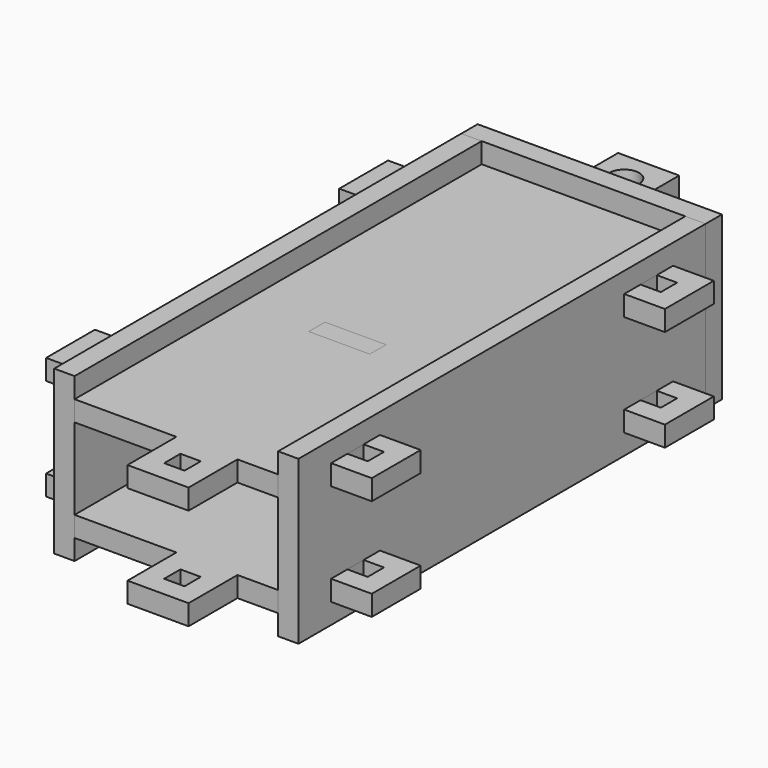
from build123d import *

# Parameters (mm, degrees)
BOX_W             = 12
BOX_H             = 3
BOX_DEPTH         = 12
BOX111_W          = 9
BOX111_H          = 3
BOX111_DEPTH      = 3
BOX112_W          = 9
BOX112_H          = 3
BOX112_DEPTH      = 3
BOX125_W          = 9
BOX125_H          = 3
BOX125_DEPTH      = 3
BOX123_W          = 9
BOX123_H          = 3
BOX123_DEPTH      = 3
BOX124_W          = 36
BOX124_H          = 3
BOX124_DEPTH      = 24
BOX126_W          = 9
BOX126_H          = 3
BOX126_DEPTH      = 3
BOX084_W          = 3
BOX084_H          = 3
BOX084_DEPTH      = 4
BOX083_W          = 9
BOX083_H          = 9
BOX083_DEPTH      = 3
BOX086_W          = 3
BOX086_H          = 3
BOX086_DEPTH      = 4
BOX085_W          = 9
BOX085_H          = 9
BOX085_DEPTH      = 3
BOX088_W          = 3
BOX088_H          = 3
BOX088_DEPTH      = 4
BOX087_W          = 9
BOX087_H          = 9
BOX087_DEPTH      = 3
BOX004_W          = 3
BOX004_H          = 3
BOX004_DEPTH      = 4
BOX003_W          = 9
BOX003_H          = 9
BOX003_DEPTH      = 3
BOX005_W          = 9
BOX005_H          = 3
BOX005_DEPTH      = 3
BOX082_W          = 30
BOX082_H          = 75
BOX082_DEPTH      = 3
BOX002_W          = 3
BOX002_H          = 3
BOX002_DEPTH      = 4
BOX001_W          = 9
BOX001_H          = 9
BOX001_DEPTH      = 3
CYLINDER027_R     = 2.2
CYLINDER027_DEPTH = 10
BOX006_W          = 9
BOX006_H          = 9
BOX006_DEPTH      = 3
BOX113_W          = 3
BOX113_H          = 9
BOX113_DEPTH      = 3
BOX114_W          = 3
BOX114_H          = 9
BOX114_DEPTH      = 3
BOX115_W          = 3
BOX115_H          = 9
BOX115_DEPTH      = 3
BOX116_W          = 3
BOX116_H          = 9
BOX116_DEPTH      = 3
BOX117_W          = 3
BOX117_H          = 75
BOX117_DEPTH      = 24
BOX127_W          = 3
BOX127_H          = 9
BOX127_DEPTH      = 3
BOX128_W          = 3
BOX128_H          = 9
BOX128_DEPTH      = 3
BOX129_W          = 3
BOX129_H          = 9
BOX129_DEPTH      = 3
BOX130_W          = 3
BOX130_H          = 9
BOX130_DEPTH      = 3
BOX131_W          = 3
BOX131_H          = 75
BOX131_DEPTH      = 24
BOX145_W          = 9
BOX145_H          = 3
BOX145_DEPTH      = 3
BOX140_W          = 3
BOX140_H          = 3
BOX140_DEPTH      = 4
BOX139_W          = 9
BOX139_H          = 9
BOX139_DEPTH      = 3
BOX142_W          = 3
BOX142_H          = 3
BOX142_DEPTH      = 4
BOX141_W          = 9
BOX141_H          = 9
BOX141_DEPTH      = 3
BOX144_W          = 3
BOX144_H          = 3
BOX144_DEPTH      = 4
BOX143_W          = 9
BOX143_H          = 9
BOX143_DEPTH      = 3
BOX136_W          = 3
BOX136_H          = 3
BOX136_DEPTH      = 4
BOX135_W          = 9
BOX135_H          = 9
BOX135_DEPTH      = 3
BOX137_W          = 9
BOX137_H          = 3
BOX137_DEPTH      = 3
BOX132_W          = 30
BOX132_H          = 75
BOX132_DEPTH      = 3
BOX134_W          = 3
BOX134_H          = 3
BOX134_DEPTH      = 4
BOX133_W          = 9
BOX133_H          = 9
BOX133_DEPTH      = 3
CYLINDER028_R     = 2.2
CYLINDER028_DEPTH = 10
BOX138_W          = 9
BOX138_H          = 9
BOX138_DEPTH      = 3


with BuildPart() as cube:
    # Box → Box (new body)
    with BuildSketch(Plane(origin=(-0.5, 12, 3), x_dir=(1, 0, 0), z_dir=(0, 0, 1))):
        with Locations((6, 1.5)):
            Rectangle(BOX_W, BOX_H)
    extrude(amount=BOX_DEPTH)


with BuildPart() as cube033:
    # Box111 → Box111 (new body)
    with BuildSketch(Plane(origin=(1, 12, 15), x_dir=(1, 0, 0), z_dir=(0, 0, 1))):
        with Locations((4.5, 1.5)):
            Rectangle(BOX111_W, BOX111_H)
    extrude(amount=BOX111_DEPTH)


with BuildPart() as turretpitchholderdistant:
    # Box112 → Box112 (new body)
    with BuildSketch(Plane(origin=(1, 12, 0), x_dir=(1, 0, 0), z_dir=(0, 0, 1))):
        with Locations((4.5, 1.5)):
            Rectangle(BOX112_W, BOX112_H)
    extrude(amount=BOX112_DEPTH)

    # Fusion030: union Cube, Cube033
    add(cube.part)
    add(cube033.part)


with BuildPart() as turretpitchholderdistant_1:
    # Fusion030 placement: moved
    add(turretpitchholderdistant.part.moved(Location((9.5, 18, 0))))


with BuildPart() as cube047:
    # Box125 → Box125 (new body)
    with BuildSketch(Plane(origin=(10.5, -3, 15), x_dir=(1, 0, 0), z_dir=(0, 0, 1))):
        with Locations((4.5, 1.5)):
            Rectangle(BOX125_W, BOX125_H)
    extrude(amount=BOX125_DEPTH)


with BuildPart() as cube045:
    # Box123 → Box123 (new body)
    with BuildSketch(Plane(origin=(10.5, -3, 0), x_dir=(1, 0, 0), z_dir=(0, 0, 1))):
        with Locations((4.5, 1.5)):
            Rectangle(BOX123_W, BOX123_H)
    extrude(amount=BOX123_DEPTH)


with BuildPart() as turretpitchholdertopplate:
    # Box124 → Box124 (new body)
    with BuildSketch(Plane(origin=(-3, -3, -3), x_dir=(1, 0, 0), z_dir=(0, 0, 1))):
        with Locations((18, 1.5)):
            Rectangle(BOX124_W, BOX124_H)
    extrude(amount=BOX124_DEPTH)

    # Cut052: cut Cube045
    add(cube045.part, mode=Mode.SUBTRACT)

    # Cut058: cut Cube047
    add(cube047.part, mode=Mode.SUBTRACT)


with BuildPart() as turretpitchholdertopplate_1:
    # Cut058 placement: moved
    add(turretpitchholdertopplate.part.moved(Location((0, 78, 0))))


with BuildPart() as cube048:
    # Box126 → Box126 (new body)
    with BuildSketch(Plane(origin=(10.5, 75, 0), x_dir=(1, 0, 0), z_dir=(0, 0, 1))):
        with Locations((4.5, 1.5)):
            Rectangle(BOX126_W, BOX126_H)
    extrude(amount=BOX126_DEPTH)


with BuildPart() as cube014:
    # Box084 → Box084 (new body)
    with BuildSketch(Plane(origin=(-6, 9, 0), x_dir=(1, 0, 0), z_dir=(0, 0, 1))):
        with Locations((1.5, 1.5)):
            Rectangle(BOX084_W, BOX084_H)
    extrude(amount=BOX084_DEPTH)


with BuildPart() as cut035:
    # Box083 → Box083 (new body)
    with BuildSketch(Plane(origin=(-9, 6, 0), x_dir=(1, 0, 0), z_dir=(0, 0, 1))):
        with Locations((4.5, 4.5)):
            Rectangle(BOX083_W, BOX083_H)
    extrude(amount=BOX083_DEPTH)

    # Cut035: cut Cube014
    add(cube014.part, mode=Mode.SUBTRACT)


with BuildPart() as cut035_1:
    # Cut035 placement: moved
    add(cut035.part.moved(Location((24, -15, 0))))


with BuildPart() as cube016:
    # Box086 → Box086 (new body)
    with BuildSketch(Plane(origin=(-6, 9, 0), x_dir=(1, 0, 0), z_dir=(0, 0, 1))):
        with Locations((1.5, 1.5)):
            Rectangle(BOX086_W, BOX086_H)
    extrude(amount=BOX086_DEPTH)


with BuildPart() as cut036:
    # Box085 → Box085 (new body)
    with BuildSketch(Plane(origin=(-9, 6, 0), x_dir=(1, 0, 0), z_dir=(0, 0, 1))):
        with Locations((4.5, 4.5)):
            Rectangle(BOX085_W, BOX085_H)
    extrude(amount=BOX085_DEPTH)

    # Cut036: cut Cube016
    add(cube016.part, mode=Mode.SUBTRACT)


with BuildPart() as cut036_1:
    # Cut036 placement: moved
    add(cut036.part.moved(Location((39, 54, 0))))


with BuildPart() as cube018:
    # Box088 → Box088 (new body)
    with BuildSketch(Plane(origin=(-6, 9, 0), x_dir=(1, 0, 0), z_dir=(0, 0, 1))):
        with Locations((1.5, 1.5)):
            Rectangle(BOX088_W, BOX088_H)
    extrude(amount=BOX088_DEPTH)


with BuildPart() as cut037:
    # Box087 → Box087 (new body)
    with BuildSketch(Plane(origin=(-9, 6, 0), x_dir=(1, 0, 0), z_dir=(0, 0, 1))):
        with Locations((4.5, 4.5)):
            Rectangle(BOX087_W, BOX087_H)
    extrude(amount=BOX087_DEPTH)

    # Cut037: cut Cube018
    add(cube018.part, mode=Mode.SUBTRACT)


with BuildPart() as cut037_1:
    # Cut037 placement: moved
    add(cut037.part.moved(Location((0, 54, 0))))


with BuildPart() as cube010:
    # Box004 → Box004 (new body)
    with BuildSketch(Plane(origin=(-6, 9, 0), x_dir=(1, 0, 0), z_dir=(0, 0, 1))):
        with Locations((1.5, 1.5)):
            Rectangle(BOX004_W, BOX004_H)
    extrude(amount=BOX004_DEPTH)


with BuildPart() as cut001:
    # Box003 → Box003 (new body)
    with BuildSketch(Plane(origin=(-9, 6, 0), x_dir=(1, 0, 0), z_dir=(0, 0, 1))):
        with Locations((4.5, 4.5)):
            Rectangle(BOX003_W, BOX003_H)
    extrude(amount=BOX003_DEPTH)

    # Cut001: cut Cube010
    add(cube010.part, mode=Mode.SUBTRACT)


with BuildPart() as cut001_1:
    # Cut001 placement: moved
    add(cut001.part.moved(Location((39, 0, 0))))


with BuildPart() as cube011:
    # Box005 → Box005 (new body)
    with BuildSketch(Plane(origin=(10.5, 30, 0), x_dir=(1, 0, 0), z_dir=(0, 0, 1))):
        with Locations((4.5, 1.5)):
            Rectangle(BOX005_W, BOX005_H)
    extrude(amount=BOX005_DEPTH)


with BuildPart() as cut002:
    # Box082 → Box082 (new body)
    with BuildSketch(Plane.XY):
        with Locations((15, 37.5)):
            Rectangle(BOX082_W, BOX082_H)
    extrude(amount=BOX082_DEPTH)

    # Cut002: cut Cube011
    add(cube011.part, mode=Mode.SUBTRACT)


with BuildPart() as cube008:
    # Box002 → Box002 (new body)
    with BuildSketch(Plane(origin=(-6, 9, 0), x_dir=(1, 0, 0), z_dir=(0, 0, 1))):
        with Locations((1.5, 1.5)):
            Rectangle(BOX002_W, BOX002_H)
    extrude(amount=BOX002_DEPTH)


with BuildPart() as fusion027:
    # Box001 → Box001 (new body)
    with BuildSketch(Plane(origin=(-9, 6, 0), x_dir=(1, 0, 0), z_dir=(0, 0, 1))):
        with Locations((4.5, 4.5)):
            Rectangle(BOX001_W, BOX001_H)
    extrude(amount=BOX001_DEPTH)

    # Cut034: cut Cube008
    add(cube008.part, mode=Mode.SUBTRACT)

    # Fusion027: union Cut001, Cut002
    add(cut001_1.part)
    add(cut002.part)


with BuildPart() as obj1:
    # Cylinder027 → Cylinder027 (new body)
    with BuildSketch(Plane(origin=(15, 40.5, 0), x_dir=(1, 0, 0), z_dir=(0, 0, 1))):
        Circle(CYLINDER027_R)
    extrude(amount=CYLINDER027_DEPTH)


with BuildPart() as turretpitchholderside:
    # Box006 → Box006 (new body)
    with BuildSketch(Plane(origin=(10.5, 36, 0), x_dir=(1, 0, 0), z_dir=(0, 0, 1))):
        with Locations((4.5, 4.5)):
            Rectangle(BOX006_W, BOX006_H)
    extrude(amount=BOX006_DEPTH)

    # Cut003: cut obj1
    add(obj1.part, mode=Mode.SUBTRACT)


with BuildPart() as turretpitchholderside_1:
    # Cut003 placement: moved
    add(turretpitchholderside.part.moved(Location((0, 42, 0))))

    # Fusion: union Cut035, Cut036, Cut037, Fusion027
    add(cut035_1.part)
    add(cut036_1.part)
    add(cut037_1.part)
    add(fusion027.part)

    # Fusion031: union Cube048
    add(cube048.part)


with BuildPart() as cube035:
    # Box113 → Box113 (new body)
    with BuildSketch(Plane(origin=(30, 60, 0), x_dir=(1, 0, 0), z_dir=(0, 0, 1))):
        with Locations((1.5, 4.5)):
            Rectangle(BOX113_W, BOX113_H)
    extrude(amount=BOX113_DEPTH)


with BuildPart() as cube036:
    # Box114 → Box114 (new body)
    with BuildSketch(Plane(origin=(39, 6, 0), x_dir=(1, 0, 0), z_dir=(0, 0, 1))):
        with Locations((1.5, 4.5)):
            Rectangle(BOX114_W, BOX114_H)
    extrude(amount=BOX114_DEPTH)


with BuildPart() as cube037:
    # Box115 → Box115 (new body)
    with BuildSketch(Plane(origin=(39, 6, 15), x_dir=(1, 0, 0), z_dir=(0, 0, 1))):
        with Locations((1.5, 4.5)):
            Rectangle(BOX115_W, BOX115_H)
    extrude(amount=BOX115_DEPTH)


with BuildPart() as cube038:
    # Box116 → Box116 (new body)
    with BuildSketch(Plane(origin=(39, 60, 15), x_dir=(1, 0, 0), z_dir=(0, 0, 1))):
        with Locations((1.5, 4.5)):
            Rectangle(BOX116_W, BOX116_H)
    extrude(amount=BOX116_DEPTH)


with BuildPart() as turretpitchholdersideplate:
    # Box117 → Box117 (new body)
    with BuildSketch(Plane(origin=(39, 0, -3), x_dir=(1, 0, 0), z_dir=(0, 0, 1))):
        with Locations((1.5, 37.5)):
            Rectangle(BOX117_W, BOX117_H)
    extrude(amount=BOX117_DEPTH)

    # Cut: cut Cube038
    add(cube038.part, mode=Mode.SUBTRACT)

    # Cut045: cut Cube037
    add(cube037.part, mode=Mode.SUBTRACT)

    # Cut046: cut Cube036
    add(cube036.part, mode=Mode.SUBTRACT)

    # Cut047: cut Cube035
    add(cube035.part, mode=Mode.SUBTRACT)


with BuildPart() as turretpitchholdersideplate_1:
    # Cut047 placement: moved
    add(turretpitchholdersideplate.part.moved(Location((-9, 0, 0))))

    # Cut059: cut Cube035
    add(cube035.part, mode=Mode.SUBTRACT)


with BuildPart() as cube049:
    # Box127 → Box127 (new body)
    with BuildSketch(Plane(origin=(30, 60, 0), x_dir=(1, 0, 0), z_dir=(0, 0, 1))):
        with Locations((1.5, 4.5)):
            Rectangle(BOX127_W, BOX127_H)
    extrude(amount=BOX127_DEPTH)


with BuildPart() as cube050:
    # Box128 → Box128 (new body)
    with BuildSketch(Plane(origin=(39, 6, 0), x_dir=(1, 0, 0), z_dir=(0, 0, 1))):
        with Locations((1.5, 4.5)):
            Rectangle(BOX128_W, BOX128_H)
    extrude(amount=BOX128_DEPTH)


with BuildPart() as cube051:
    # Box129 → Box129 (new body)
    with BuildSketch(Plane(origin=(39, 6, 15), x_dir=(1, 0, 0), z_dir=(0, 0, 1))):
        with Locations((1.5, 4.5)):
            Rectangle(BOX129_W, BOX129_H)
    extrude(amount=BOX129_DEPTH)


with BuildPart() as cube052:
    # Box130 → Box130 (new body)
    with BuildSketch(Plane(origin=(39, 60, 15), x_dir=(1, 0, 0), z_dir=(0, 0, 1))):
        with Locations((1.5, 4.5)):
            Rectangle(BOX130_W, BOX130_H)
    extrude(amount=BOX130_DEPTH)


with BuildPart() as turretpitchholdersideplate001:
    # Box131 → Box131 (new body)
    with BuildSketch(Plane(origin=(39, 0, -3), x_dir=(1, 0, 0), z_dir=(0, 0, 1))):
        with Locations((1.5, 37.5)):
            Rectangle(BOX131_W, BOX131_H)
    extrude(amount=BOX131_DEPTH)

    # Cut060: cut Cube052
    add(cube052.part, mode=Mode.SUBTRACT)

    # Cut061: cut Cube051
    add(cube051.part, mode=Mode.SUBTRACT)

    # Cut062: cut Cube050
    add(cube050.part, mode=Mode.SUBTRACT)

    # Cut063: cut Cube049
    add(cube049.part, mode=Mode.SUBTRACT)


with BuildPart() as turretpitchholdersideplate001_1:
    # Cut063 placement: moved
    add(turretpitchholdersideplate001.part.moved(Location((-9, 0, 0))))

    # Cut064: cut Cube049
    add(cube049.part, mode=Mode.SUBTRACT)


with BuildPart() as turretpitchholdersideplate001_2:
    # Cut064 placement: moved
    add(turretpitchholdersideplate001_1.part.moved(Location((-33, 0, 0))))


with BuildPart() as cube067:
    # Box145 → Box145 (new body)
    with BuildSketch(Plane(origin=(10.5, 75, 0), x_dir=(1, 0, 0), z_dir=(0, 0, 1))):
        with Locations((4.5, 1.5)):
            Rectangle(BOX145_W, BOX145_H)
    extrude(amount=BOX145_DEPTH)


with BuildPart() as cube062:
    # Box140 → Box140 (new body)
    with BuildSketch(Plane(origin=(-6, 9, 0), x_dir=(1, 0, 0), z_dir=(0, 0, 1))):
        with Locations((1.5, 1.5)):
            Rectangle(BOX140_W, BOX140_H)
    extrude(amount=BOX140_DEPTH)


with BuildPart() as cut069:
    # Box139 → Box139 (new body)
    with BuildSketch(Plane(origin=(-9, 6, 0), x_dir=(1, 0, 0), z_dir=(0, 0, 1))):
        with Locations((4.5, 4.5)):
            Rectangle(BOX139_W, BOX139_H)
    extrude(amount=BOX139_DEPTH)

    # Cut069: cut Cube062
    add(cube062.part, mode=Mode.SUBTRACT)


with BuildPart() as cut069_1:
    # Cut069 placement: moved
    add(cut069.part.moved(Location((24, -15, 0))))


with BuildPart() as cube064:
    # Box142 → Box142 (new body)
    with BuildSketch(Plane(origin=(-6, 9, 0), x_dir=(1, 0, 0), z_dir=(0, 0, 1))):
        with Locations((1.5, 1.5)):
            Rectangle(BOX142_W, BOX142_H)
    extrude(amount=BOX142_DEPTH)


with BuildPart() as cut070:
    # Box141 → Box141 (new body)
    with BuildSketch(Plane(origin=(-9, 6, 0), x_dir=(1, 0, 0), z_dir=(0, 0, 1))):
        with Locations((4.5, 4.5)):
            Rectangle(BOX141_W, BOX141_H)
    extrude(amount=BOX141_DEPTH)

    # Cut070: cut Cube064
    add(cube064.part, mode=Mode.SUBTRACT)


with BuildPart() as cut070_1:
    # Cut070 placement: moved
    add(cut070.part.moved(Location((39, 54, 0))))


with BuildPart() as cube066:
    # Box144 → Box144 (new body)
    with BuildSketch(Plane(origin=(-6, 9, 0), x_dir=(1, 0, 0), z_dir=(0, 0, 1))):
        with Locations((1.5, 1.5)):
            Rectangle(BOX144_W, BOX144_H)
    extrude(amount=BOX144_DEPTH)


with BuildPart() as cut071:
    # Box143 → Box143 (new body)
    with BuildSketch(Plane(origin=(-9, 6, 0), x_dir=(1, 0, 0), z_dir=(0, 0, 1))):
        with Locations((4.5, 4.5)):
            Rectangle(BOX143_W, BOX143_H)
    extrude(amount=BOX143_DEPTH)

    # Cut071: cut Cube066
    add(cube066.part, mode=Mode.SUBTRACT)


with BuildPart() as cut071_1:
    # Cut071 placement: moved
    add(cut071.part.moved(Location((0, 54, 0))))


with BuildPart() as cube058:
    # Box136 → Box136 (new body)
    with BuildSketch(Plane(origin=(-6, 9, 0), x_dir=(1, 0, 0), z_dir=(0, 0, 1))):
        with Locations((1.5, 1.5)):
            Rectangle(BOX136_W, BOX136_H)
    extrude(amount=BOX136_DEPTH)


with BuildPart() as cut066:
    # Box135 → Box135 (new body)
    with BuildSketch(Plane(origin=(-9, 6, 0), x_dir=(1, 0, 0), z_dir=(0, 0, 1))):
        with Locations((4.5, 4.5)):
            Rectangle(BOX135_W, BOX135_H)
    extrude(amount=BOX135_DEPTH)

    # Cut066: cut Cube058
    add(cube058.part, mode=Mode.SUBTRACT)


with BuildPart() as cut066_1:
    # Cut066 placement: moved
    add(cut066.part.moved(Location((39, 0, 0))))


with BuildPart() as cube059:
    # Box137 → Box137 (new body)
    with BuildSketch(Plane(origin=(10.5, 30, 0), x_dir=(1, 0, 0), z_dir=(0, 0, 1))):
        with Locations((4.5, 1.5)):
            Rectangle(BOX137_W, BOX137_H)
    extrude(amount=BOX137_DEPTH)


with BuildPart() as cut067:
    # Box132 → Box132 (new body)
    with BuildSketch(Plane.XY):
        with Locations((15, 37.5)):
            Rectangle(BOX132_W, BOX132_H)
    extrude(amount=BOX132_DEPTH)

    # Cut067: cut Cube059
    add(cube059.part, mode=Mode.SUBTRACT)


with BuildPart() as cube056:
    # Box134 → Box134 (new body)
    with BuildSketch(Plane(origin=(-6, 9, 0), x_dir=(1, 0, 0), z_dir=(0, 0, 1))):
        with Locations((1.5, 1.5)):
            Rectangle(BOX134_W, BOX134_H)
    extrude(amount=BOX134_DEPTH)


with BuildPart() as fusion032:
    # Box133 → Box133 (new body)
    with BuildSketch(Plane(origin=(-9, 6, 0), x_dir=(1, 0, 0), z_dir=(0, 0, 1))):
        with Locations((4.5, 4.5)):
            Rectangle(BOX133_W, BOX133_H)
    extrude(amount=BOX133_DEPTH)

    # Cut065: cut Cube056
    add(cube056.part, mode=Mode.SUBTRACT)

    # Fusion032: union Cut066, Cut067
    add(cut066_1.part)
    add(cut067.part)


with BuildPart() as obj2:
    # Cylinder028 → Cylinder028 (new body)
    with BuildSketch(Plane(origin=(15, 40.5, 0), x_dir=(1, 0, 0), z_dir=(0, 0, 1))):
        Circle(CYLINDER028_R)
    extrude(amount=CYLINDER028_DEPTH)


with BuildPart() as turretpitchholderside001:
    # Box138 → Box138 (new body)
    with BuildSketch(Plane(origin=(10.5, 36, 0), x_dir=(1, 0, 0), z_dir=(0, 0, 1))):
        with Locations((4.5, 4.5)):
            Rectangle(BOX138_W, BOX138_H)
    extrude(amount=BOX138_DEPTH)

    # Cut068: cut obj2
    add(obj2.part, mode=Mode.SUBTRACT)


with BuildPart() as turretpitchholderside001_1:
    # Cut068 placement: moved
    add(turretpitchholderside001.part.moved(Location((0, 42, 0))))

    # Fusion033: union Cut069, Cut070, Cut071, Fusion032
    add(cut069_1.part)
    add(cut070_1.part)
    add(cut071_1.part)
    add(fusion032.part)

    # Fusion034: union Cube067
    add(cube067.part)


with BuildPart() as turretpitchholderside001_2:
    # Fusion034 placement: moved
    add(turretpitchholderside001_1.part.moved(Location((0, 0, 15))))


solid = Compound([turretpitchholderdistant_1.part, turretpitchholdertopplate_1.part, turretpitchholderside_1.part, turretpitchholdersideplate_1.part, turretpitchholdersideplate001_2.part, turretpitchholderside001_2.part])
